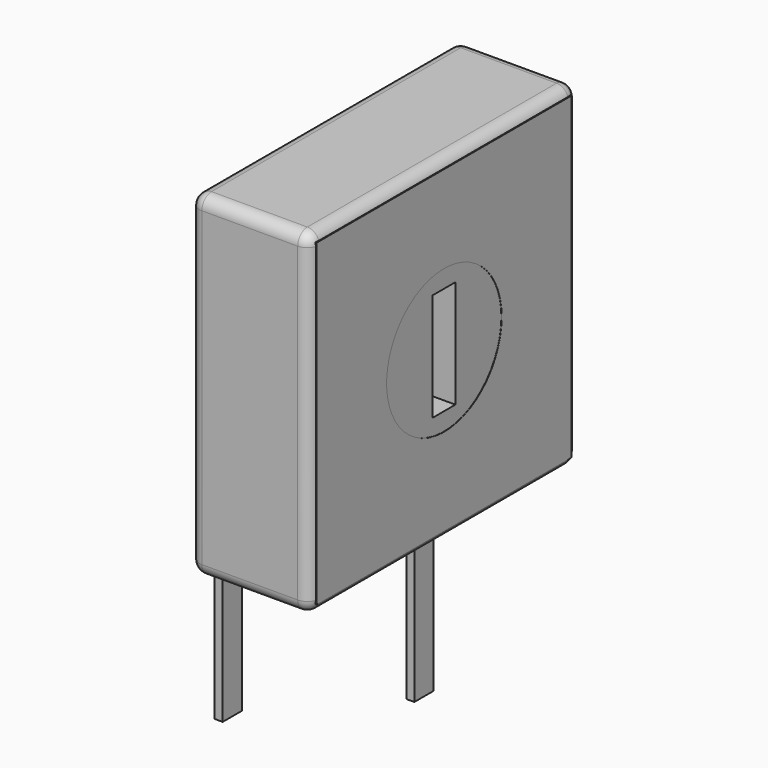
from build123d import *

# Parameters (mm, degrees)
SKETCH001_R       = 3
SKETCH001_W       = 1.2
SKETCH001_H       = 4.5
PAD001_DEPTH      = 5
SKETCH003_W       = 0.333334
SKETCH003_H       = 1
PAD002_DEPTH      = 6
PAD002_DEPTH_BACK = 3
SKETCH004_W       = 13.3
SKETCH004_H       = 13.3
SKETCH004_R       = 3
PAD003_DEPTH      = 0.2
SKETCH_W          = 14
SKETCH_H          = 14
SKETCH_R          = 3
PAD_DEPTH         = 5
FILLET_R          = 0.5


with BuildPart() as pad001:
    # Sketch001 → Pad001 (new body)
    with BuildSketch(Plane.YZ):
        with Locations((-5, 10)):
            Circle(SKETCH001_R)
        with Locations((-5, 10)):
            Rectangle(SKETCH001_W, SKETCH001_H, mode=Mode.SUBTRACT)
    extrude(amount=PAD001_DEPTH)


with BuildPart() as pad002:
    # Sketch003 → Pad002 (new body, two sides)
    with BuildSketch(Plane.XY) as pad002_sk:
        Rectangle(SKETCH003_W, SKETCH003_H)
        with Locations((4, -5)):
            Rectangle(SKETCH003_W, SKETCH003_H)
        with Locations((0, -10)):
            Rectangle(SKETCH003_W, SKETCH003_H)
    extrude(amount=PAD002_DEPTH)
    extrude(pad002_sk.sketch, amount=-PAD002_DEPTH_BACK)


with BuildPart() as pad003:
    # Sketch004 → Pad003 (new body)
    with BuildSketch(Plane.YZ.offset(5.01)):
        with Locations((-5, 10)):
            Rectangle(SKETCH004_W, SKETCH004_H)
        with Locations((-5, 10)):
            Circle(SKETCH004_R, mode=Mode.SUBTRACT)
    extrude(amount=-PAD003_DEPTH)


with BuildPart() as fillet_body:
    # Sketch → Pad (new body)
    with BuildSketch(Plane.YZ):
        with Locations((-5, 10)):
            Rectangle(SKETCH_W, SKETCH_H)
        with Locations((-5, 10)):
            Circle(SKETCH_R, mode=Mode.SUBTRACT)
    extrude(amount=PAD_DEPTH)

    # Fillet
    fillet_edges = [fillet_body.edges().sort_by_distance(p)[0] for p in [
        (0, -12, 10),
        (0, -5, 17),
        (5, -5, 17),
        (5, -12, 10),
        (5, 2, 10),
        (5, -5, 3),
        (2.5, -12, 17),
        (2.5, -12, 3),
        (2.5, 2, 3),
        (0, -5, 3),
        (0, 2, 10),
        (2.5, 2, 17),
    ]]
    fillet(fillet_edges, radius=FILLET_R)


solid = Compound([pad001.part, pad002.part, pad003.part, fillet_body.part])
